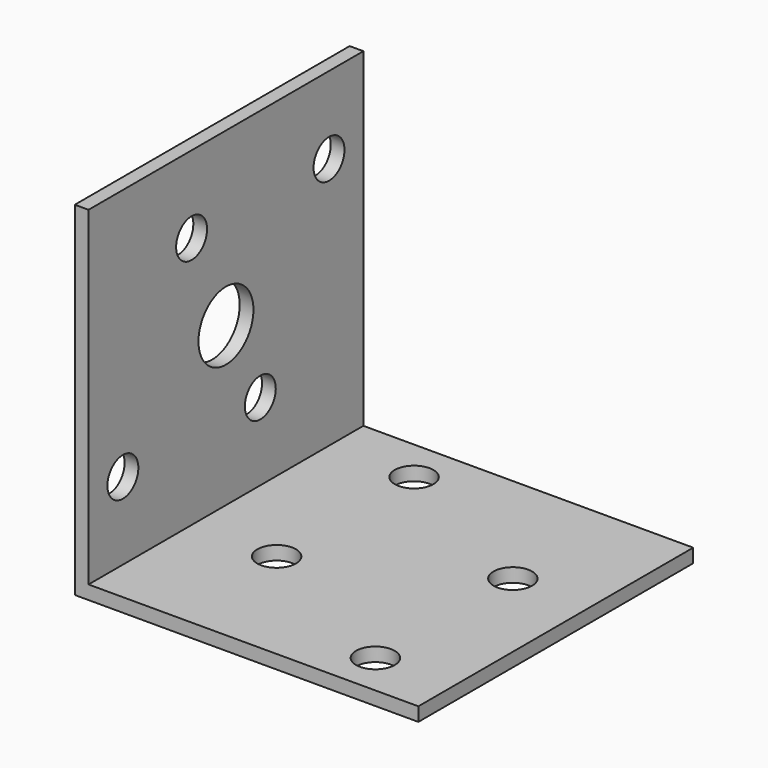
from build123d import *

# Parameters (mm, degrees)
PAD_DEPTH       = 40
SKETCH001_R     = 2.25
SKETCH001_R_2   = 4
POCKET_DEPTH    = 1.601
COPYSKETCH002_R = 2.25
POCKET001_DEPTH = 5


with BuildPart() as part:
    # Sketch → Pad (new body)
    with BuildSketch(Plane.XZ):
        Polygon((0, 0), (0, 40), (1.6, 40), (1.6, 1.6), (40, 1.6), (40, 0), align=None)
    extrude(amount=PAD_DEPTH)

    # Sketch001 (on Face3 of Pad) → Pocket (cut, through all)
    with BuildSketch(Plane(origin=(1.6, 0, 0), x_dir=(0, 0, 1), z_dir=(1, 0, 0))):
        with Locations((10.6, 35)):
            Circle(SKETCH001_R)
        with Locations((31, 25)):
            Circle(SKETCH001_R)
        with Locations((10.6, 15)):
            Circle(SKETCH001_R)
        with Locations((31, 5)):
            Circle(SKETCH001_R)
        with Locations((20, 20)):
            Circle(SKETCH001_R_2)
    extrude(amount=-POCKET_DEPTH, mode=Mode.SUBTRACT)

    # CopySketch002 → Pocket001 (cut)
    with BuildSketch(Plane(origin=(0, 0, 2.5), x_dir=(-1, 0, 0), z_dir=(0, 0, 1))):
        with Locations((-11.5, 5)):
            Circle(COPYSKETCH002_R)
        with Locations((-31, 15)):
            Circle(COPYSKETCH002_R)
        with Locations((-11.5, 25)):
            Circle(COPYSKETCH002_R)
        with Locations((-31, 35)):
            Circle(COPYSKETCH002_R)
    extrude(amount=-POCKET001_DEPTH, mode=Mode.SUBTRACT)


solid = part.part
